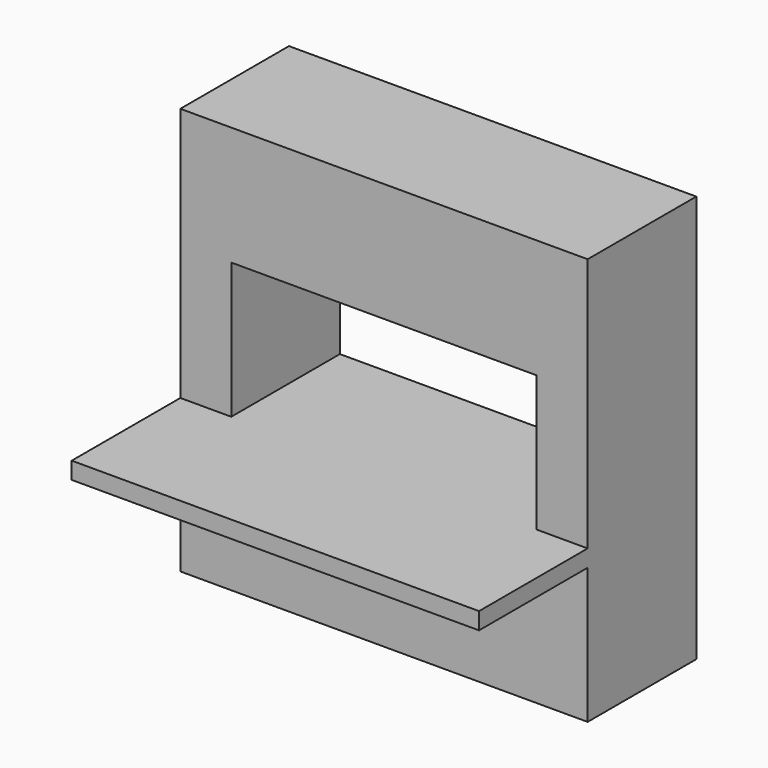
from build123d import *

# Parameters (mm, degrees)
F0_W     = 609.6
F0_H     = 609.6
F0_W_2   = 457.2
F0_H_2   = 203.2
F1_DEPTH = 203.2
F2_W     = 609.6
F2_H     = 25.4
F3_DEPTH = 203.2


with BuildPart() as f1:
    # F0 (on Front) → F1 (new body)
    with BuildSketch(Plane.XZ):
        with Locations((228.6, 361.915699)):
            Rectangle(F0_W, F0_H)
        with Locations((228.6, 387.315699)):
            Rectangle(F0_W_2, F0_H_2, mode=Mode.SUBTRACT)
    extrude(amount=F1_DEPTH)

    # F2 (on face) → F3 (join)
    with BuildSketch(Plane.XZ.offset(203.2)):
        with Locations((228.6, 273.015699)):
            Rectangle(F2_W, F2_H)
    extrude(amount=F3_DEPTH)


solid = f1.part
